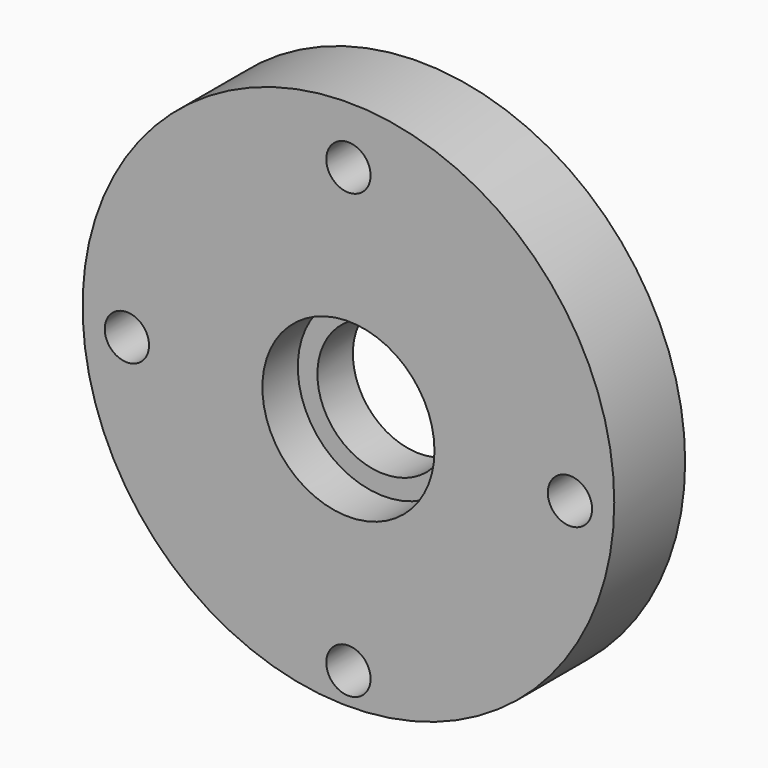
from build123d import *

# Parameters (mm, degrees)
F0_R           = 38.1
F0_R_2         = 9.525
F1_DEPTH       = 12.7
F2_R           = 12.333781
F3_DEPTH       = 6.35
F5_D           = 3.175
F5_CBORE_D     = 6.35
F5_CBORE_DEPTH = 6.35
F6_R           = 23.8125
F6_R_2         = 22.225
F7_DEPTH       = 1.905


with BuildPart() as f1:
    # F0 (on Front) → F1 (new body)
    with BuildSketch(Plane.XZ):
        with Locations((0, 1.841663)):
            Circle(F0_R)
        Circle(F0_R_2, mode=Mode.SUBTRACT)
    extrude(amount=F1_DEPTH)

    # F2 (on face) → F3 (cut)
    with BuildSketch(Plane.XZ.offset(12.7)):
        Circle(F2_R)
    extrude(amount=-F3_DEPTH, mode=Mode.SUBTRACT)

    # F5 (through all)
    with Locations(Plane.XZ.offset(12.7)):
        with Locations((0, 31.75), (31.75, 0), (0, -31.75), (-31.75, 0)):
            CounterBoreHole(F5_D / 2, F5_CBORE_D / 2, F5_CBORE_DEPTH)

    # F6 (on face) → F7 (cut)
    with BuildSketch(Plane(origin=(0, 0, 0), x_dir=(-1, 0, 0), z_dir=(0, 1, 0))):
        Circle(F6_R)
        Circle(F6_R_2, mode=Mode.SUBTRACT)
    extrude(amount=-F7_DEPTH, mode=Mode.SUBTRACT)


solid = f1.part
